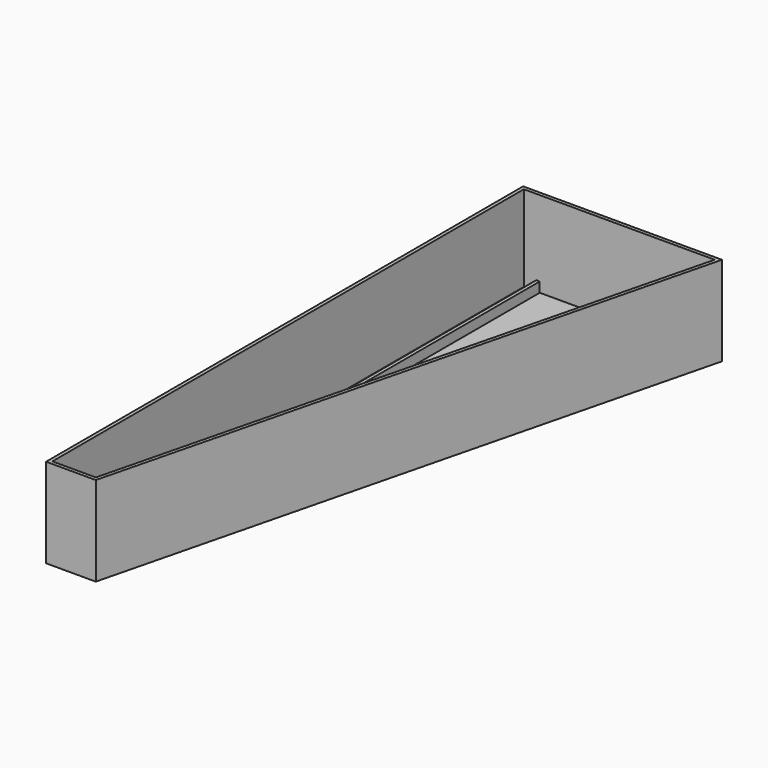
from build123d import *

# Parameters (mm, degrees)
F1_DEPTH = 18
F2_T     = -0.7
F4_W     = 0.7
F4_H     = 118.6
F5_DEPTH = 2


with BuildPart() as f1:
    # F0 (on Top) → F1 (new body)
    with BuildSketch(Plane.XY):
        Polygon((37.585583, 77.584211), (-2.414417, 77.584211), (-2.414417, -42.415789), (7.585583, -42.415789), align=None)
    extrude(amount=F1_DEPTH)

    # F2
    f2_openings = [f1.faces().sort_by_distance(p)[0] for p in [
        (11.585583, 29.584211, 18),
    ]]
    offset(amount=F2_T, openings=f2_openings)

    # F4 (on face) → F5 (join)
    with BuildSketch(Plane.XY.offset(0.7)):
        with Locations((1.135583, 17.584211)):
            Rectangle(F4_W, F4_H)
    extrude(amount=F5_DEPTH)


solid = f1.part
